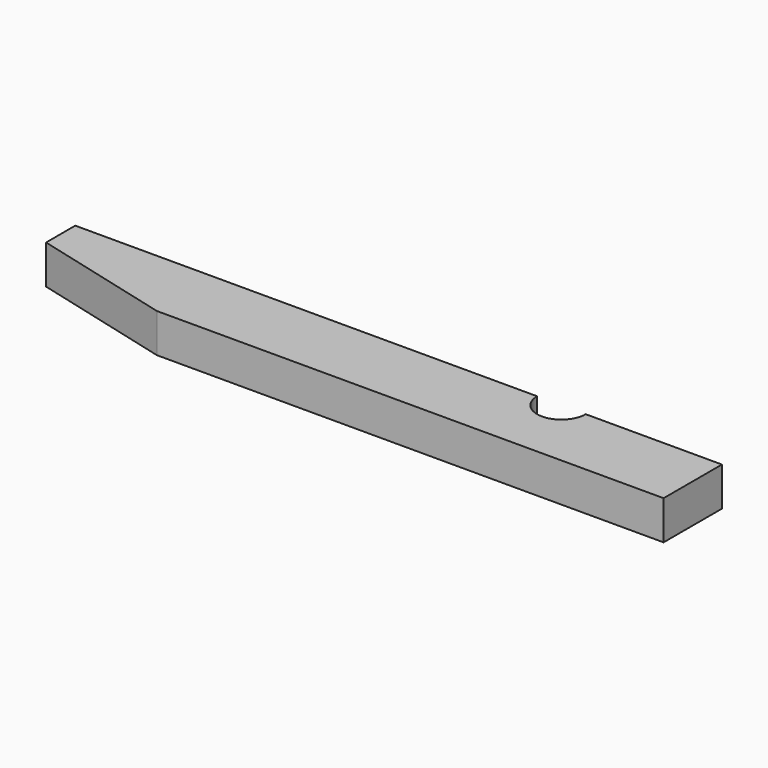
from build123d import *

# Parameters (mm, degrees)
F1_DEPTH = 5.08


with BuildPart() as f1:
    # F0 (on Top) → F1 (new body)
    with BuildSketch(Plane.XY):
        with BuildLine():
            Line((-17.206924, 4.943109), (-47.369424, 4.943109))
            Line((-47.369424, 4.943109), (-47.369424, 0.180609))
            Line((-47.369424, 0.180609), (-29.087516, -4.581891))
            Line((-29.087516, -4.581891), (37.086151, -4.581891))
            Line((37.086151, -4.581891), (37.086151, 4.943109))
            Line((37.086151, 4.943109), (19.306151, 4.943109))
            ThreePointArc((19.306151, 4.943109), (16.130863, 1.767822), (12.955576, 4.943109))
            Line((12.955576, 4.943109), (-17.206924, 4.943109))
        make_face()
    extrude(amount=F1_DEPTH)


solid = f1.part
